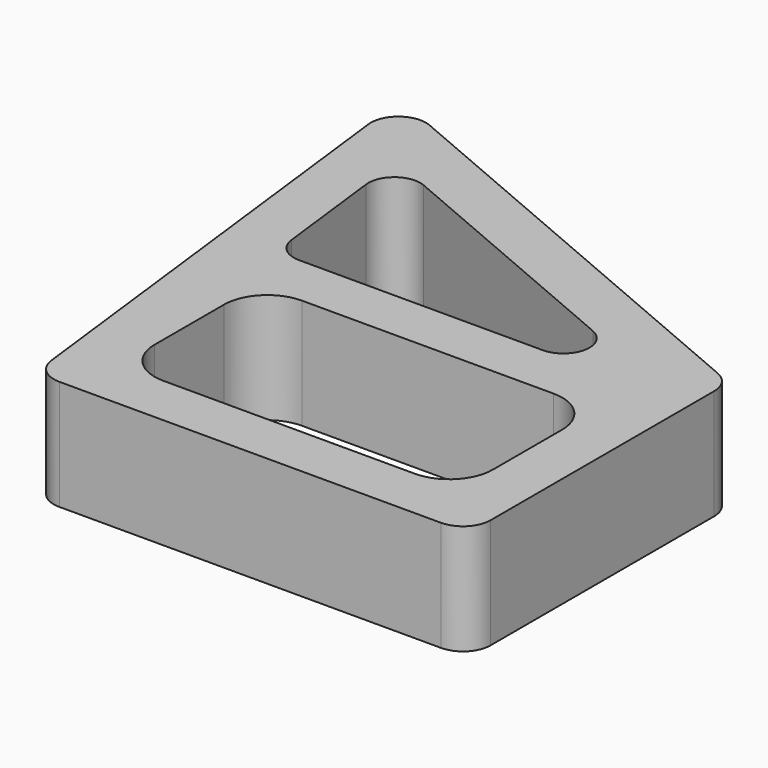
from build123d import *

# Parameters (mm, degrees)
F1_DEPTH = 25.4
F3_DEPTH = 25.4
F5_DEPTH = 25.4


with BuildPart() as f1:
    # F0 (on Top) → F1 (new body)
    with BuildSketch(Plane.XY):
        with BuildLine():
            ThreePointArc((-49.171314, 59.99193), (-55.475723, 59.232373), (-57.970132, 53.392816))
            Line((-57.970132, 53.392816), (-45.007356, -54.199724))
            ThreePointArc((-45.007356, -54.199724), (-42.915981, -58.191256), (-38.702947, -59.790168))
            Line((-38.702947, -59.790168), (49.316182, -59.790168))
            ThreePointArc((49.316182, -59.790168), (53.80631, -57.930296), (55.666182, -53.440168))
            Line((55.666182, -53.440168), (55.666182, 11.017219))
            ThreePointArc((55.666182, 11.017219), (54.615333, 14.516005), (51.810591, 16.856776))
            Line((51.810591, 16.856776), (-49.171314, 59.99193))
        make_face()
    extrude(amount=F1_DEPTH)

    # F2 (on face) → F3 (cut, through all)
    with BuildSketch(Plane.XY.offset(25.4)):
        with BuildLine():
            Line((33.666182, -7.790168), (-24.333818, -7.790168))
            ThreePointArc((-24.333818, -7.790168), (-31.404886, -10.7191), (-34.333818, -17.790168))
            Line((-34.333818, -17.790168), (-34.333818, -37.790168))
            ThreePointArc((-34.333818, -37.790168), (-31.404886, -44.861235), (-24.333818, -47.790168))
            Line((-24.333818, -47.790168), (33.666182, -47.790168))
            ThreePointArc((33.666182, -47.790168), (40.73725, -44.861235), (43.666182, -37.790168))
            Line((43.666182, -37.790168), (43.666182, -17.790168))
            ThreePointArc((43.666182, -17.790168), (40.73725, -10.7191), (33.666182, -7.790168))
        make_face()
    extrude(amount=-F3_DEPTH, mode=Mode.SUBTRACT)

    # F4 (on face) → F5 (cut, through all)
    with BuildSketch(Plane.XY.offset(25.4)):
        with BuildLine():
            Line((-34.637267, 4.209832), (21.548996, 4.209832))
            ThreePointArc((21.548996, 4.209832), (27.427183, 9.00695), (23.905918, 15.727524))
            Line((23.905918, 15.727524), (-35.328801, 41.030064))
            ThreePointArc((-35.328801, 41.030064), (-41.285723, 40.312373), (-43.642645, 34.794681))
            Line((-43.642645, 34.794681), (-40.594189, 9.492141))
            ThreePointArc((-40.594189, 9.492141), (-38.618087, 5.720615), (-34.637267, 4.209832))
        make_face()
    extrude(amount=-F5_DEPTH, mode=Mode.SUBTRACT)


solid = f1.part
